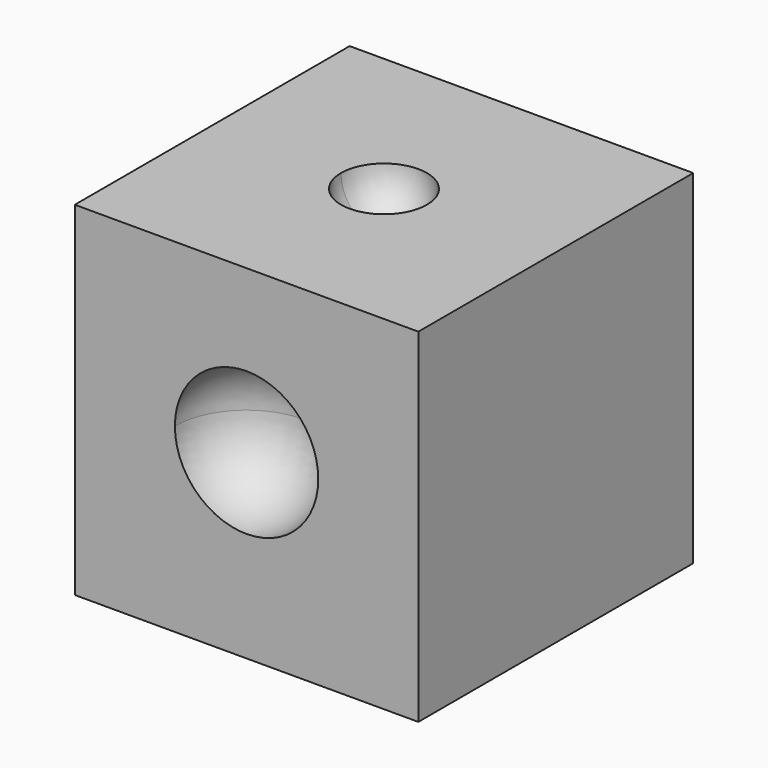
from build123d import *

# Parameters (mm, degrees)
F0_W     = 25.4
F0_H     = 25.4
F1_DEPTH = 25.4


with BuildPart() as f1:
    # F0 (on Top) → F1 (new body)
    with BuildSketch(Plane.XY):
        Rectangle(F0_W, F0_H)
    extrude(amount=F1_DEPTH)

    # F2 (on face) → F3 (revolve, cut)
    with BuildSketch(Plane.XY.offset(25.4)):
        with BuildLine():
            ThreePointArc((0, -3.175), (2.245064, -2.245064), (3.175, 0))
            ThreePointArc((3.175, 0), (2.245064, 2.245064), (0, 3.175))
            Line((0, 3.175), (0, -3.175))
        make_face()
    revolve(axis=Axis((0, 0, 25.4), (0, 1, 0)), mode=Mode.SUBTRACT)

    # F4 (on face) → F5 (revolve, cut)
    with BuildSketch(Plane.XZ.offset(12.7)):
        with BuildLine():
            ThreePointArc((0, 8.101378), (3.747453, 9.653624), (5.299699, 13.401077))
            ThreePointArc((5.299699, 13.401077), (3.747453, 17.14853), (0, 18.700776))
            Line((0, 18.700776), (0, 8.101378))
        make_face()
    revolve(axis=Axis((0, -12.7, 13.401077), (0, 0, -1)), mode=Mode.SUBTRACT)


solid = f1.part
